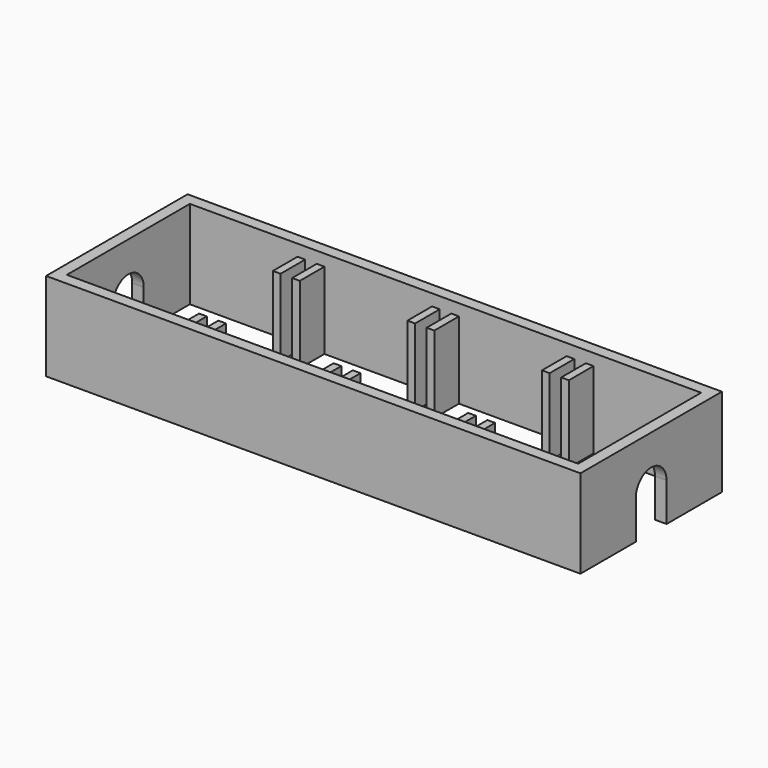
from build123d import *

# Parameters (mm, degrees)
F0_W     = 69.5
F0_H     = 23
F1_DEPTH = 1.5
F0_W_2   = 1
F0_H_2   = 4
F2_DEPTH = 10
F4_DEPTH = 69.501


with BuildPart() as f1:
    # F0 (on Top) → F1 (new body)
    with BuildSketch(Plane.XY):
        with Locations((3.447164, -3.000336)):
            Rectangle(F0_W, F0_H)
        Polygon((-29.802836, -13.000336), (-29.802836, 6.999664), (-15.802836, 6.999664), (-14.802836, 6.999664), (-13.302836, 6.999664), (-12.302836, 6.999664), (1.697164, 6.999664), (2.697164, 6.999664), (4.197164, 6.999664), (5.197164, 6.999664), (19.197164, 6.999664), (20.197164, 6.999664), (21.697164, 6.999664), (22.697164, 6.999664), (36.697164, 6.999664), (36.697164, -13.000336), (22.697164, -13.000336), (21.697164, -13.000336), (20.197164, -13.000336), (19.197164, -13.000336), (5.197164, -13.000336), (4.197164, -13.000336), (2.697164, -13.000336), (1.697164, -13.000336), (-12.302836, -13.000336), (-13.302836, -13.000336), (-14.802836, -13.000336), (-15.802836, -13.000336), align=None, mode=Mode.SUBTRACT)
    extrude(amount=F1_DEPTH)

    # F0 (on Top) → F2 (join)
    with BuildSketch(Plane.XY):
        with Locations((3.447164, -3.000336)):
            Rectangle(F0_W, F0_H)
        Polygon((-29.802836, -13.000336), (-29.802836, 6.999664), (-15.802836, 6.999664), (-14.802836, 6.999664), (-13.302836, 6.999664), (-12.302836, 6.999664), (1.697164, 6.999664), (2.697164, 6.999664), (4.197164, 6.999664), (5.197164, 6.999664), (19.197164, 6.999664), (20.197164, 6.999664), (21.697164, 6.999664), (22.697164, 6.999664), (36.697164, 6.999664), (36.697164, -13.000336), (22.697164, -13.000336), (21.697164, -13.000336), (20.197164, -13.000336), (19.197164, -13.000336), (5.197164, -13.000336), (4.197164, -13.000336), (2.697164, -13.000336), (1.697164, -13.000336), (-12.302836, -13.000336), (-13.302836, -13.000336), (-14.802836, -13.000336), (-15.802836, -13.000336), align=None, mode=Mode.SUBTRACT)
        with Locations((-15.302836, -11.000336)):
            Rectangle(F0_W_2, F0_H_2)
        with Locations((-12.802836, -11.000336)):
            Rectangle(F0_W_2, F0_H_2)
        with Locations((2.197164, -11.000336)):
            Rectangle(F0_W_2, F0_H_2)
        with Locations((4.697164, -11.000336)):
            Rectangle(F0_W_2, F0_H_2)
        with Locations((19.697164, -11.000336)):
            Rectangle(F0_W_2, F0_H_2)
        with Locations((22.197164, -11.000336)):
            Rectangle(F0_W_2, F0_H_2)
        with Locations((22.197164, 4.999664)):
            Rectangle(F0_W_2, F0_H_2)
        with Locations((19.697164, 4.999664)):
            Rectangle(F0_W_2, F0_H_2)
        with Locations((4.697164, 4.999664)):
            Rectangle(F0_W_2, F0_H_2)
        with Locations((2.197164, 4.999664)):
            Rectangle(F0_W_2, F0_H_2)
        with Locations((-12.802836, 4.999664)):
            Rectangle(F0_W_2, F0_H_2)
        with Locations((-15.302836, 4.999664)):
            Rectangle(F0_W_2, F0_H_2)
    extrude(amount=-F2_DEPTH)

    # F3 (on face) → F4 (cut, through all)
    with BuildSketch(Plane(origin=(-31.302836, 0, 0), x_dir=(0, -1, 0), z_dir=(-1, 0, 0))):
        with BuildLine():
            Line((0.500336, -5), (0.500336, -10))
            Line((0.500336, -10), (5.500336, -10))
            Line((5.500336, -10), (5.500336, -5))
            ThreePointArc((5.500336, -5), (3.000336, -2.5), (0.500336, -5))
        make_face()
    extrude(amount=-F4_DEPTH, mode=Mode.SUBTRACT)


solid = f1.part
